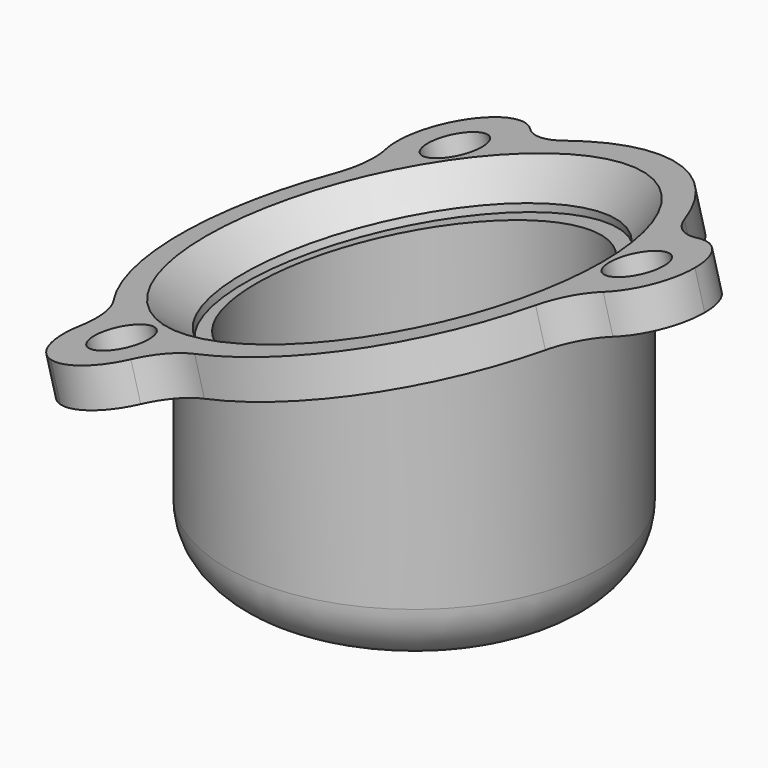
from build123d import *

# Parameters (mm, degrees)
F0_R      = 15.875
F1_DEPTH  = 25.4
F2_R      = 13.335
F3_DEPTH  = 22.225
F5_DEPTH  = 63.5
F6_R      = 25.4
F6_R_2    = 14.7959664705
F7_DEPTH  = 3.175
F8_R      = 2.38125
F9_DEPTH  = 25.4
F10_R     = 5.08
F12_DEPTH = 15.876
F13_SIZE  = 2.54
F14_R     = 5.08


with BuildPart() as f1:
    # F0 (on Top) → F1 (new body)
    with BuildSketch(Plane.XY):
        Circle(F0_R)
    extrude(amount=F1_DEPTH)

    # F2 (on face) → F3 (cut)
    with BuildSketch(Plane.XY.offset(25.4)):
        Circle(F2_R)
    extrude(amount=-F3_DEPTH, mode=Mode.SUBTRACT)

    # F4 (on Front) → F5 (cut, symmetric)
    with BuildSketch(Plane.XZ):
        Polygon((19.0631877631, 25.4), (-16.8183632195, 25.4), (-16.8183632195, 15.785567391), align=None)
    extrude(amount=F5_DEPTH, both=True, mode=Mode.SUBTRACT)

    # F6 (on face) → F7 (join)
    with BuildSketch(Plane(origin=(-5.0730085584, 0, 18.9327256873), x_dir=(0.9659258263, 0, 0.2588190451), z_dir=(-0.2588190451, 0, 0.9659258263))):
        with Locations((5.2519649236, 0)):
            Circle(F6_R)
        with Locations((5.2519649236, 0)):
            Circle(F6_R_2, mode=Mode.SUBTRACT)
    extrude(amount=F7_DEPTH)

    # F8 (on face) → F9 (cut)
    with BuildSketch(Plane(origin=(-5.8947590266, 0, 21.9995401858), x_dir=(0.9659258263, 0, 0.2588190451), z_dir=(-0.2588190451, 0, 0.9659258263))):
        with BuildLine():
            ThreePointArc((23.1907149236, 0), (25.5719649236, -2.38125), (27.9532149236, 0))
            ThreePointArc((27.9532149236, 0), (25.5719649236, 2.38125), (23.1907149236, 0))
        make_face()
        with Locations((-4.9080350764, 17.5976362049)):
            Circle(F8_R)
        with Locations((-4.9080350764, -17.5976362049)):
            Circle(F8_R)
    extrude(amount=-F9_DEPTH, mode=Mode.SUBTRACT)

    # F10
    f10_edges = [f1.edges().sort_by_distance(p)[0] for p in [
        (-15.875, 0, 0),
    ]]
    fillet(f10_edges, radius=F10_R)

    # F11 (on face) → F12 (cut, through all)
    with BuildSketch(Plane(origin=(-5.0730085584, 0, 18.9327256873), x_dir=(0.9659258263, 0, 0.2588190451), z_dir=(0.2588190451, 0, -0.9659258263))):
        with BuildLine():
            ThreePointArc((24.2529336259, -4.9057676704), (15.0639903014, -16.9949264796), (0, -18.908205428))
            ThreePointArc((0, -18.908205428), (-2.9619801154, -22.2901057135), (-7.4480353128, -21.9970451197))
            ThreePointArc((-7.4480353128, -21.9970451197), (17.9519648054, -21.9970453243), (30.6519649236, 0))
            ThreePointArc((30.6519649236, 0), (28.6627351357, -4.0315678707), (24.2529336259, -4.9057676704))
        make_face()
        with BuildLine():
            ThreePointArc((-7.4480353296, 21.99704511), (-20.1480350764, -9.7e-09), (-7.4480353128, -21.9970451197))
            ThreePointArc((-7.4480353128, -21.9970451197), (-9.9448603933, -18.2585376552), (-8.4970388552, -14.0024377576))
            ThreePointArc((-8.4970388552, -14.0024377576), (-14.3720858322, 0), (-8.4970388552, 14.0024377576))
            ThreePointArc((-8.4970388552, 14.0024377576), (-9.9448603946, 18.2585376456), (-7.4480353296, 21.99704511))
        make_face()
        with BuildLine():
            ThreePointArc((30.6519649236, 0), (17.951964797, 21.9970453292), (-7.4480353296, 21.99704511))
            ThreePointArc((-7.4480353296, 21.99704511), (-2.9619801244, 22.2901057172), (0, 18.908205428))
            ThreePointArc((0, 18.908205428), (15.0639903014, 16.9949264796), (24.2529336259, 4.9057676704))
            ThreePointArc((24.2529336259, 4.9057676704), (28.6627351357, 4.0315678707), (30.6519649236, 0))
        make_face()
    extrude(amount=-F12_DEPTH, mode=Mode.SUBTRACT)

    # F13
    f13_edges = [f1.edges().sort_by_distance(p)[0] for p in [
        (-15.113557, 0, 19.529371),
    ]]
    chamfer(f13_edges, length=F13_SIZE)

    # F14
    f14_edges = [f1.edges().sort_by_distance(p)[0] for p in [
        (-5.483884, -18.908205, 20.466133),
        (-13.691393, -14.002438, 18.266937),
        (-13.691393, 14.002438, 18.266937),
        (-5.483884, 18.908205, 20.466133),
        (17.942651, 4.905768, 26.743254),
        (17.942651, -4.905768, 26.743254),
    ]]
    fillet(f14_edges, radius=F14_R)


solid = f1.part
